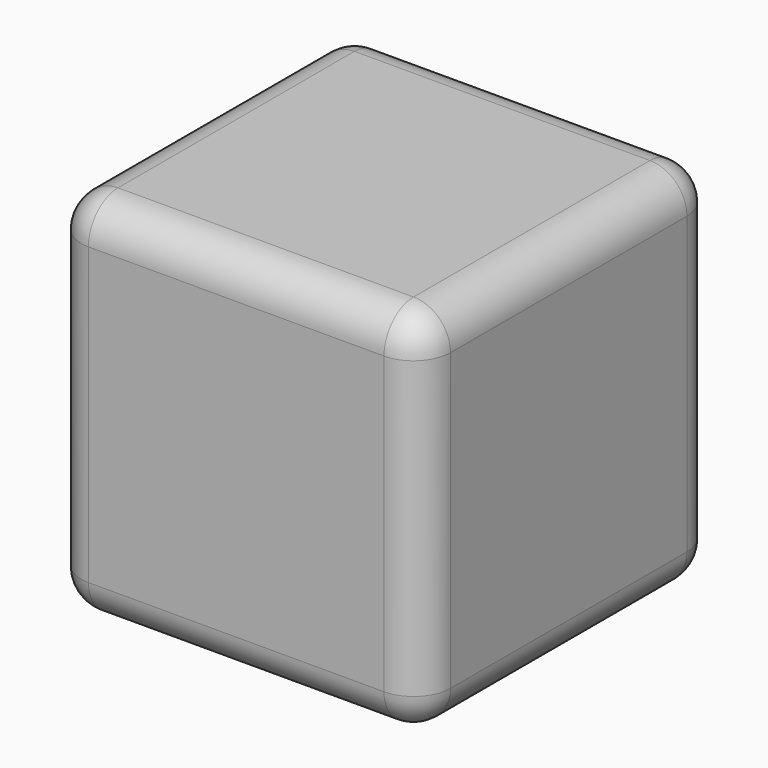
from build123d import *

# Parameters (mm, degrees)
F1_DEPTH = 50
F2_R     = 5
F3_R     = 5


with BuildPart() as f1:
    # F0 (on Top) → F1 (new body)
    with BuildSketch(Plane.XY):
        with BuildLine():
            Line((20, 25), (-20, 25))
            ThreePointArc((-20, 25), (-23.5355339059, 23.5355339059), (-25, 20))
            Line((-25, 20), (-25, -20))
            ThreePointArc((-25, -20), (-23.5355339059, -23.5355339059), (-20, -25))
            Line((-20, -25), (20, -25))
            ThreePointArc((20, -25), (23.5355339059, -23.5355339059), (25, -20))
            Line((25, -20), (25, 20))
            ThreePointArc((25, 20), (23.5355339059, 23.5355339059), (20, 25))
        make_face()
    extrude(amount=F1_DEPTH)

    # F2
    f2_edges = [f1.edges().sort_by_distance(p)[0] for p in [
        (25, 0, 50),
    ]]
    fillet(f2_edges, radius=F2_R)

    # F3
    f3_edges = [f1.edges().sort_by_distance(p)[0] for p in [
        (0, 25, 0),
    ]]
    fillet(f3_edges, radius=F3_R)


solid = f1.part
